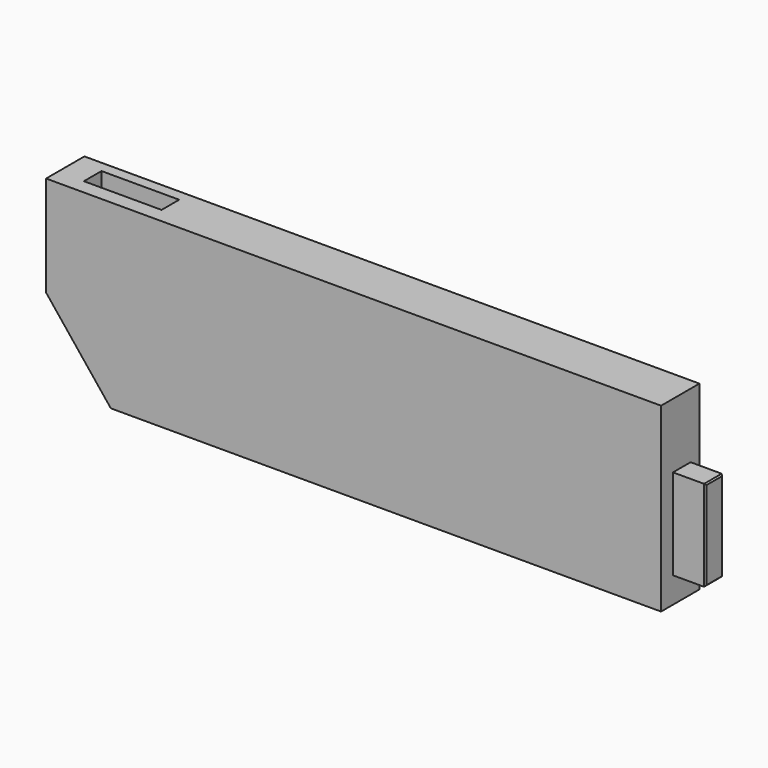
from build123d import *

# Parameters (mm, degrees)
F1_DEPTH      = 5.08
F1_DEPTH_BACK = 4.318
F2_W          = 4.318
F2_H          = 17.78
F3_DEPTH      = 6.35
F4_W          = 15.24
F4_H          = 4.318
F5_DEPTH      = 4.318
F6_SIZE       = 0.254


with BuildPart() as f1:
    # F0 (on Front) → F1 (new body, two sides)
    with BuildSketch(Plane.XZ) as f1_sk:
        Polygon((0, -35.56), (0, 0), (-120.645046, 0), (-120.645046, -19.697705), (-107.945046, -35.56), align=None)
    extrude(amount=F1_DEPTH)
    extrude(f1_sk.sketch, amount=-F1_DEPTH_BACK)

    # F2 (on face) → F3 (join)
    with BuildSketch(Plane.YZ):
        with Locations((0, -21.59)):
            Rectangle(F2_W, F2_H)
    extrude(amount=F3_DEPTH)

    # F4 (on face) → F5 (cut)
    with BuildSketch(Plane.XY):
        with Locations((-107.945046, 0)):
            Rectangle(F4_W, F4_H)
    extrude(amount=-F5_DEPTH, mode=Mode.SUBTRACT)

    # F6
    f6_edges = [f1.edges().sort_by_distance(p)[0] for p in [
        (6.35, 0, -12.7),
        (6.35, -2.159, -21.59),
        (6.35, 0, -30.48),
        (6.35, 2.159, -21.59),
    ]]
    chamfer(f6_edges, length=F6_SIZE)


solid = f1.part
